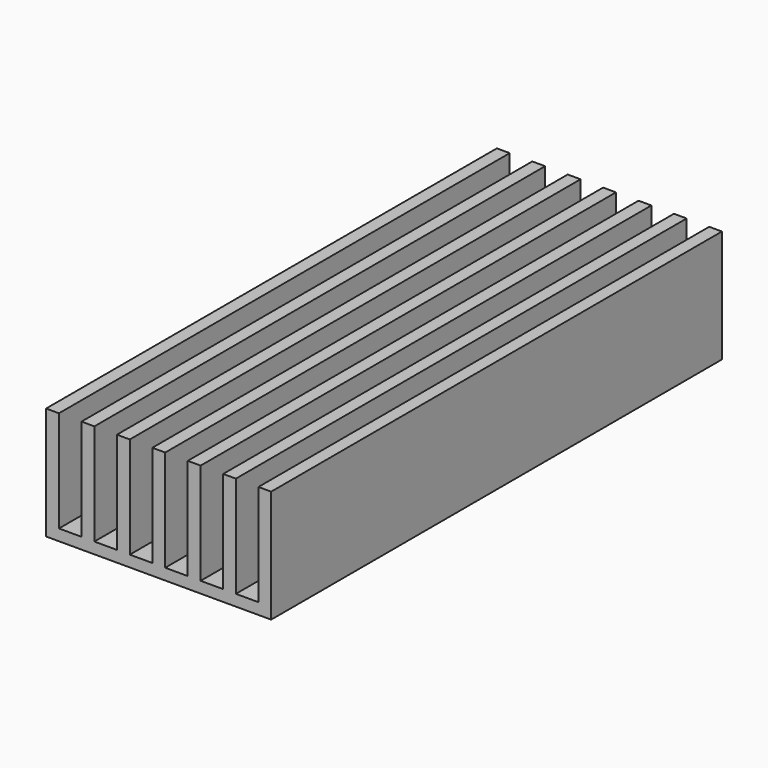
from build123d import *

# Parameters (mm, degrees)
F1_DEPTH = 50


with BuildPart() as f1:
    # F0 (on Front) → F1 (new body, symmetric)
    with BuildSketch(Plane.XZ):
        Polygon((19.9459, -8), (19.9459, 10), (17.6872, 10), (17.6872, -8), (13.6872, -8), (13.6872, 10), (11.4285, 10), (11.4285, -8), (7.4285, -8), (7.4285, 10), (5.1428, 10), (5.1428, -8), (1.1428, -8), (1.1428, 10), (-1.1429, 10), (-1.1429, -8), (-5.1429, -8), (-5.1429, 10), (-7.4286, 10), (-7.4286, -8), (-11.4286, -8), (-11.4286, 10), (-13.7143, 10), (-13.7143, -8), (-17.7143, -8), (-17.7143, 10), (-20, 10), (-20, -10), (19.9459, -10), align=None)
    extrude(amount=F1_DEPTH, both=True)


solid = f1.part
